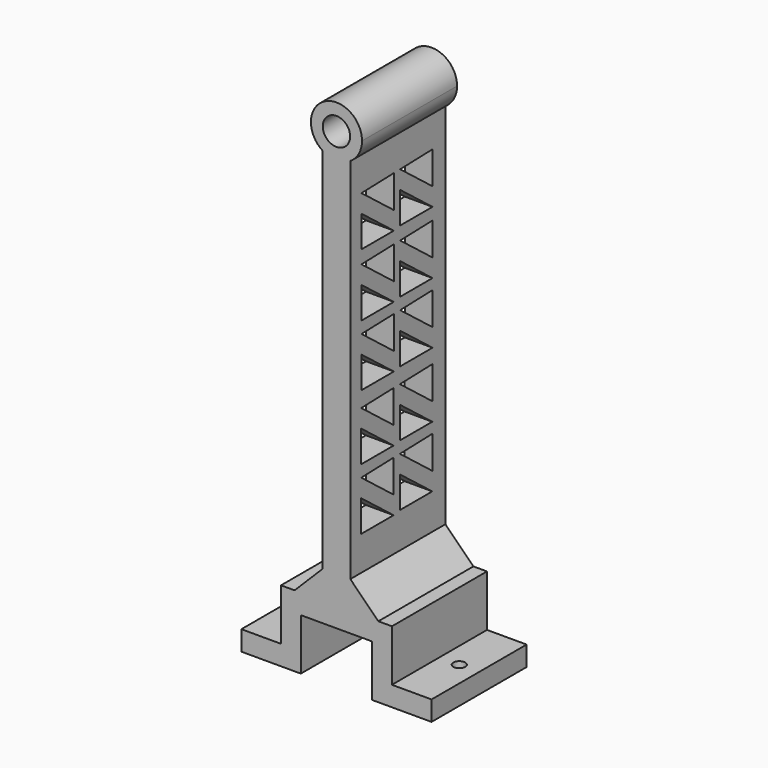
from build123d import *

# Parameters (mm, degrees)
F0_R     = 3.45
F1_DEPTH = 30
F2_R     = 1.5
F3_DEPTH = 25.4
F5_DEPTH = 25.4


with BuildPart() as f1:
    # F0 (on Front) → F1 (new body)
    with BuildSketch(Plane.XZ):
        Polygon((-24, 5), (-24, 0), (-9, 0), (-9, 13), (0, 13), (9, 13), (9, 0), (24, 0), (24, 5), (14, 5), (14, 18), (10.571068, 18), (3.5, 18), (0, 18), (-3.5, 18), (-10.571068, 18), (-14, 18), (-14, 5), align=None)
        Polygon((-3.5, 25.071068), (-10.571068, 18), (-3.5, 18), align=None)
        with BuildLine():
            Line((-3.5, 25.071068), (-3.5, 18))
            Line((-3.5, 18), (0, 18))
            Line((0, 18), (3.5, 18))
            Line((3.5, 18), (3.5, 25.071068))
            Line((3.5, 25.071068), (3.5, 118))
            ThreePointArc((3.5, 118), (0, 116.967795), (-3.5, 118))
            Line((-3.5, 118), (-3.5, 25.071068))
        make_face()
        with BuildLine():
            ThreePointArc((6.45, 123.417795), (-3.084437, 129.082488), (-3.5, 118))
            ThreePointArc((-3.5, 118), (0, 116.967795), (3.5, 118))
            ThreePointArc((3.5, 118), (5.664693, 120.333358), (6.45, 123.417795))
        make_face()
        with Locations((0, 123.417795)):
            Circle(F0_R, mode=Mode.SUBTRACT)
        Polygon((3.5, 25.071068), (3.5, 18), (10.571068, 18), align=None)
    extrude(amount=F1_DEPTH)

    # F2 (on face) → F3 (cut)
    with BuildSketch(Plane.XY.offset(5)):
        with Locations((19, -15)):
            Circle(F2_R)
        with Locations((-19, -15)):
            Circle(F2_R)
    extrude(amount=-F3_DEPTH, mode=Mode.SUBTRACT)

    # F4 (on face) → F5 (cut)
    with BuildSketch(Plane(origin=(-3.5, 0, 0), x_dir=(0, -1, 0), z_dir=(-1, 0, 0))):
        Polygon((14.351341, 41.974204), (4.138201, 34.047591), (14.351341, 34.047591), align=None)
        Polygon((4.138201, 38.620638), (14.351341, 46.547251), (4.138201, 46.852125), align=None)
        Polygon((14.351341, 57.451731), (4.138201, 49.525118), (14.351341, 49.525118), align=None)
        Polygon((4.138201, 54.098165), (14.351341, 62.024778), (4.138201, 62.329652), align=None)
        Polygon((14.279029, 73.874906), (4.065889, 65.948293), (14.279029, 65.948293), align=None)
        Polygon((4.065889, 70.52134), (14.279029, 78.447953), (4.065889, 78.752828), align=None)
        Polygon((14.279029, 89.352433), (4.065889, 81.42582), (14.279029, 81.42582), align=None)
        Polygon((4.065889, 85.998867), (14.279029, 93.92548), (4.065889, 94.230354), align=None)
        Polygon((26.558967, 41.64265), (16.345827, 33.716037), (26.558967, 33.716037), align=None)
        Polygon((16.345827, 38.289084), (26.558967, 46.215698), (16.345827, 46.520572), align=None)
        Polygon((26.558967, 57.120177), (16.345827, 49.193564), (26.558967, 49.193564), align=None)
        Polygon((16.345827, 53.766611), (26.558967, 61.693224), (16.345827, 61.998098), align=None)
        Polygon((26.486655, 73.543353), (16.273515, 65.61674), (26.486655, 65.61674), align=None)
        Polygon((16.273515, 70.189787), (26.486655, 78.1164), (16.273515, 78.421274), align=None)
        Polygon((26.486655, 89.02088), (16.273515, 81.094267), (26.486655, 81.094267), align=None)
        Polygon((16.273515, 85.667314), (26.486655, 93.593927), (16.273515, 93.898801), align=None)
        Polygon((14.279029, 105.178627), (4.065889, 97.252014), (14.279029, 97.252014), align=None)
        Polygon((4.065889, 101.825062), (14.279029, 109.751675), (4.065889, 110.056549), align=None)
        Polygon((26.486655, 104.847074), (16.273515, 96.920461), (26.486655, 96.920461), align=None)
        Polygon((16.273515, 101.493508), (26.486655, 109.420121), (16.273515, 109.724995), align=None)
    extrude(amount=-F5_DEPTH, mode=Mode.SUBTRACT)


solid = f1.part
